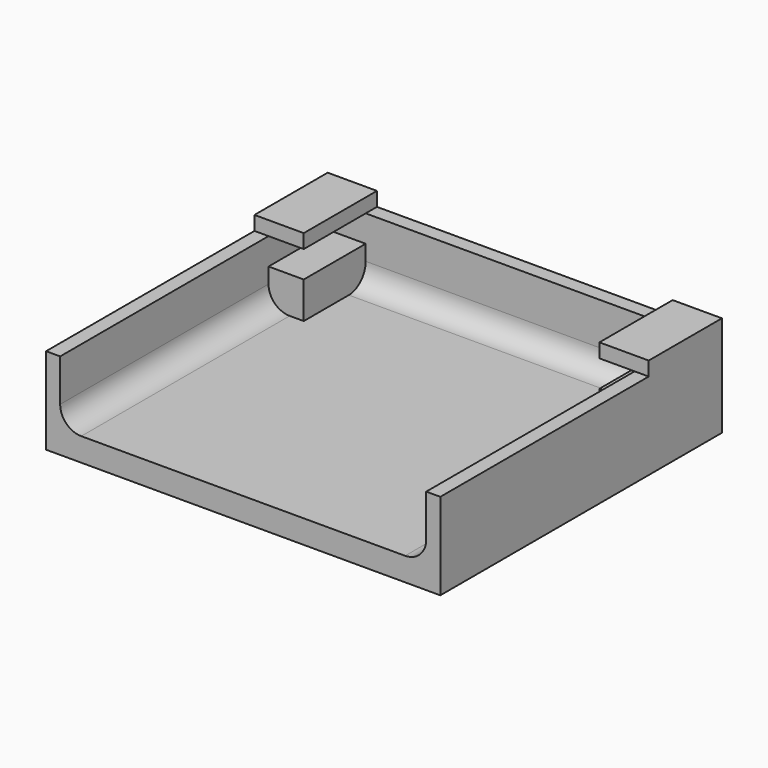
from build123d import *

# Parameters (mm, degrees)
SKETCH_W     = 28
SKETCH_H     = 25
PAD_DEPTH    = 1.66
PAD001_DEPTH = 4.5
PAD002_DEPTH = 6.5
FILLET_R     = 1.5


with BuildPart() as part:
    # Sketch → Pad (new body)
    with BuildSketch(Plane.XY):
        with Locations((0, 12.5)):
            Rectangle(SKETCH_W, SKETCH_H)
    extrude(amount=PAD_DEPTH)

    # Sketch001 → Pad001 (new body)
    with BuildSketch(Plane.XY.offset(1.66)):
        Polygon((-14, 0), (-13, 0), (-13, 24), (13, 24), (13, 0), (14, 0), (14, 25), (-14, 25), align=None)
    extrude(amount=PAD001_DEPTH)

    # Sketch002 → Pad002 (new body)
    with BuildSketch(Plane(origin=(0, 25, 0), x_dir=(-1, 0, 0), z_dir=(0, 1, 0))):
        Polygon((-10.5, 6.16), (-10.5, 7.16), (-14, 7.16), (-14, 1.66), (-10.5, 1.66), (-10.5, 4.26), (-13, 4.26), (-13, 6.16), align=None)
    pad002 = extrude(amount=-PAD002_DEPTH)

    # Mirrored: Pad002 across Sketch002 V_Axis
    add(pad002.mirror(Plane(origin=(0, 25, 0), x_dir=(0, 1, 0), z_dir=(-1, 0, 0))))

    # Fillet
    fillet_edges = [part.edges().sort_by_distance(p)[0] for p in [
        (0, 24, 1.66),
        (13, 9.25, 1.66),
        (-13, 9.25, 1.66),
    ]]
    fillet(fillet_edges, radius=FILLET_R)


solid = part.part
